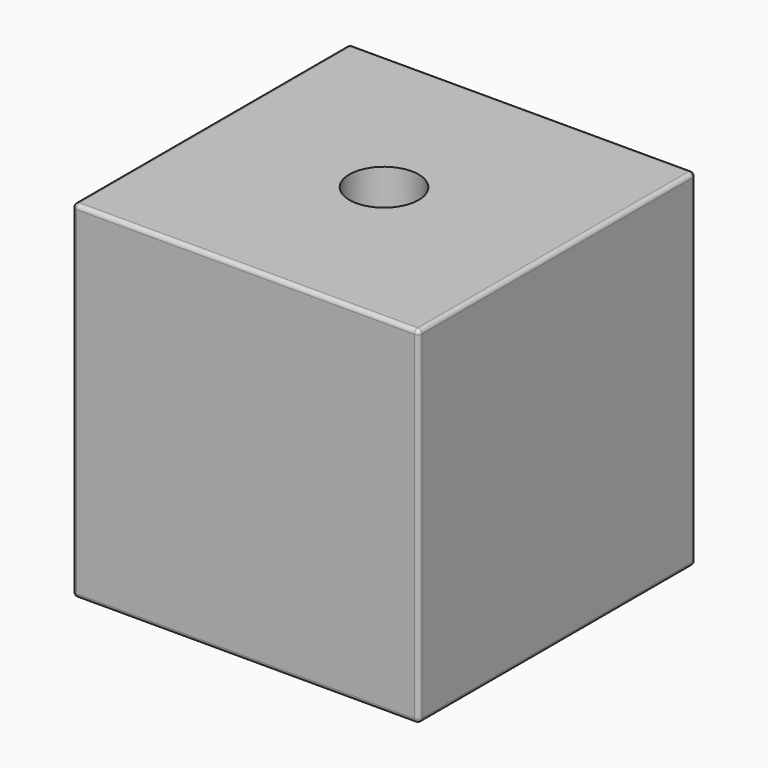
from build123d import *

# Parameters (mm, degrees)
F0_W     = 100
F0_H     = 100
F1_DEPTH = 100
F2_R     = 10
F3_DEPTH = 25
F4_R     = 1.2


with BuildPart() as f1:
    # F0 (on Top) → F1 (new body)
    with BuildSketch(Plane.XY):
        Rectangle(F0_W, F0_H)
    extrude(amount=F1_DEPTH)

    # F2 (on face) → F3 (cut)
    with BuildSketch(Plane.XY.offset(100)):
        Circle(F2_R)
    extrude(amount=-F3_DEPTH, mode=Mode.SUBTRACT)

    # F4
    f4_edges = [f1.edges().sort_by_distance(p)[0] for p in [
        (-50, 0, 100),
        (0, 50, 100),
        (50, 0, 100),
        (0, -50, 100),
        (-50, -50, 50),
        (-50, 50, 50),
        (50, -50, 50),
        (50, 50, 50),
        (50, 0, 0),
        (0, -50, 0),
        (-50, 0, 0),
        (0, 50, 0),
    ]]
    fillet(f4_edges, radius=F4_R)


solid = f1.part
